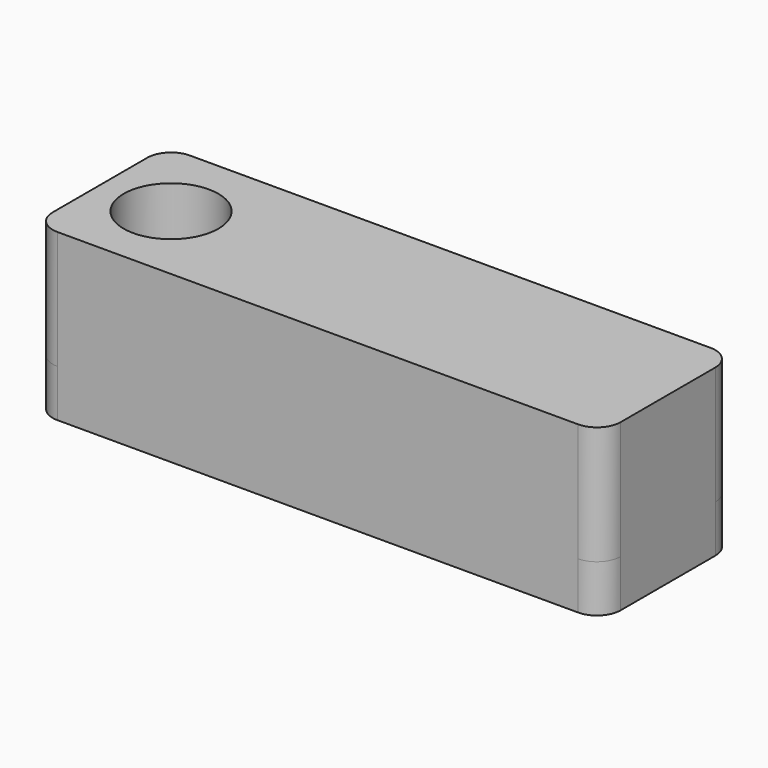
from build123d import *

# Parameters (mm, degrees)
F0_W     = 120
F0_H     = 35
F0_R     = 10
F1_DEPTH = 10
F2_R     = 5
F3_R     = 10
F4_DEPTH = 25


with BuildPart() as f1:
    # F0 (on Top) → F1 (new body)
    with BuildSketch(Plane.XY):
        Rectangle(F0_W, F0_H)
        with Locations((-45, 0)):
            Circle(F0_R, mode=Mode.SUBTRACT)
    extrude(amount=F1_DEPTH)

    # F2
    f2_edges = [f1.edges().sort_by_distance(p)[0] for p in [
        (-60, -17.5, 5),
        (60, -17.5, 5),
        (60, 17.5, 5),
        (-60, 17.5, 5),
    ]]
    fillet(f2_edges, radius=F2_R)

    # F3 (on face) → F4 (join)
    with BuildSketch(Plane.XY.offset(10)):
        with BuildLine():
            ThreePointArc((55, -17.5), (58.535534, -16.035534), (60, -12.5))
            Line((60, -12.5), (60, 12.5))
            ThreePointArc((60, 12.5), (58.535534, 16.035534), (55, 17.5))
            Line((55, 17.5), (-55, 17.5))
            ThreePointArc((-55, 17.5), (-58.535534, 16.035534), (-60, 12.5))
            Line((-60, 12.5), (-60, -12.5))
            ThreePointArc((-60, -12.5), (-58.535534, -16.035534), (-55, -17.5))
            Line((-55, -17.5), (55, -17.5))
        make_face()
        with Locations((-45, 0)):
            Circle(F3_R, mode=Mode.SUBTRACT)
    extrude(amount=F4_DEPTH)


solid = f1.part
